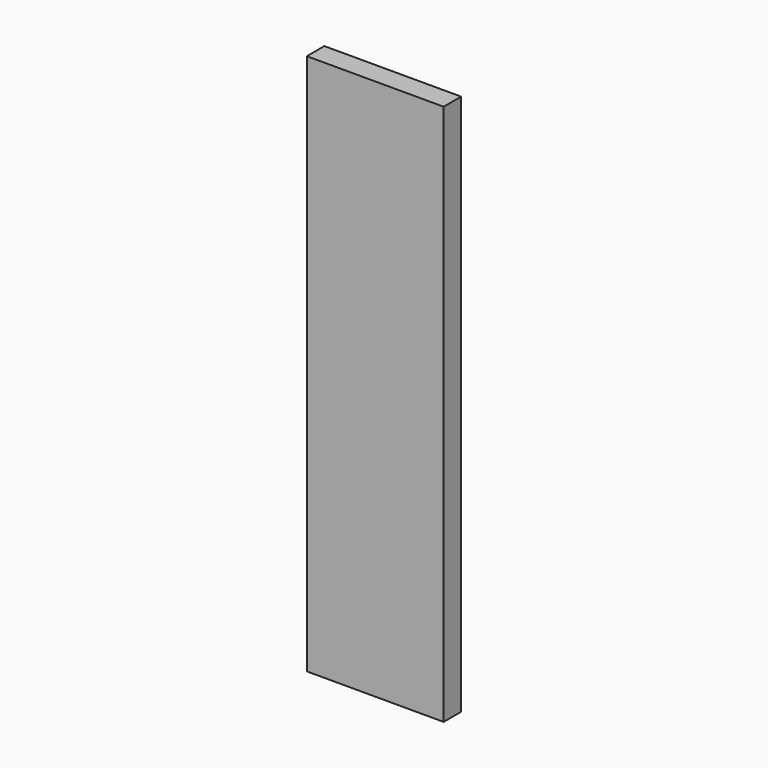
from build123d import *

# Parameters (mm, degrees)
F0_W     = 40.0536805391
F0_H     = 44.0229400992
F1_DEPTH = 25
F2_DEPTH = 16
F3_DEPTH = 100
F4_DEPTH = 1996
F5_DEPTH = 396


with BuildPart() as f1:
    # F0 (on Front) → F1 (new body)
    with BuildSketch(Plane.XZ):
        with Locations((20.0268402696, 22.0114700496)):
            Rectangle(F0_W, F0_H)
    extrude(amount=F1_DEPTH)

    # F2 (intersect): a face of the model
    f2_faces = [f1.faces().sort_by_distance(p)[0] for p in [
        (20.0268402696, 0, 22.0114700496),
    ]]
    extrude(f2_faces, amount=-F2_DEPTH, mode=Mode.INTERSECT)

    # F3 (add): a face of the model
    f3_faces = [f1.faces().sort_by_distance(p)[0] for p in [
        (0, -8, 22.0114700496),
    ]]
    extrude(f3_faces, amount=-F3_DEPTH)

    # F4 (add): a face of the model
    f4_faces = [f1.faces().sort_by_distance(p)[0] for p in [
        (50, -8, 0),
    ]]
    extrude(f4_faces, amount=-F4_DEPTH)

    # F5 (intersect): a face of the model
    f5_faces = [f1.faces().sort_by_distance(p)[0] for p in [
        (50, -8, 0),
    ]]
    extrude(f5_faces, amount=-F5_DEPTH, mode=Mode.INTERSECT)


solid = f1.part
